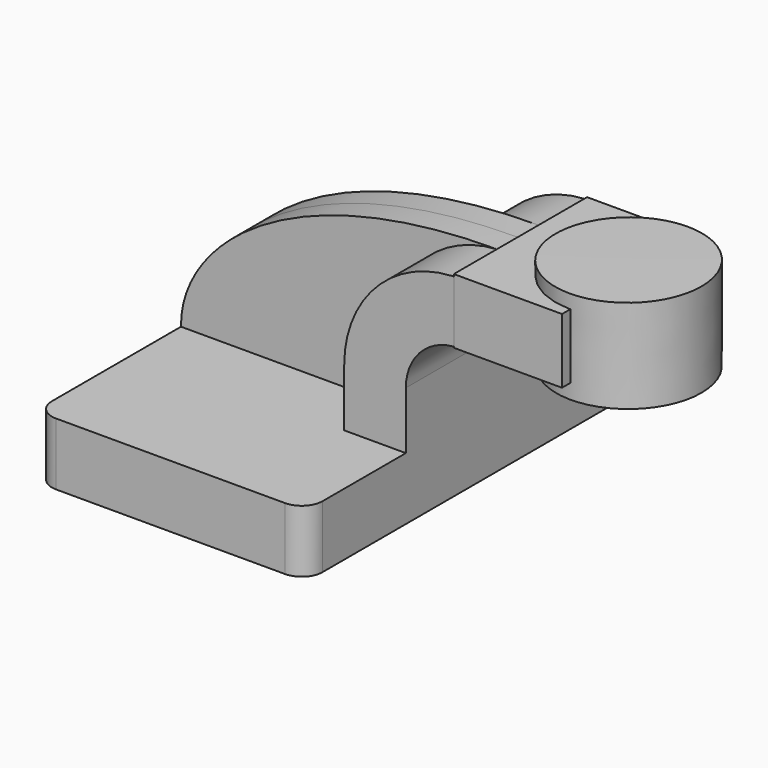
from build123d import *

# Parameters (mm, degrees)
F1_DEPTH = 63.5
F2_DEPTH = 25.4
F3_DEPTH = 7.9375
F4_R     = 6.35
F6_W     = 32.9938158393
F6_H     = 19.7962932289
F7_DEPTH = 25.4


with BuildPart() as f1:
    # F0 (on Front) → F1 (new body, symmetric)
    with BuildSketch(Plane.XZ):
        Polygon((-41.275, 9.525), (-41.275, -9.525), (41.275, -9.525), (41.275, 9.525), (22.4789988603, 9.525), align=None)
    extrude(amount=F1_DEPTH, both=True)

    # F0 (on Front) → F2 (join, symmetric)
    with BuildSketch(Plane.XZ):
        with BuildLine():
            Line((22.4789988603, 9.525), (41.275, 9.525))
            Line((41.275, 9.525), (41.275, 27.0503496115))
            ThreePointArc((41.275, 27.0503496115), (45.4874194262, 37.8206717682), (55.8891529902, 42.8752))
            Line((55.8891529902, 42.8752), (60.325, 42.8752))
            Line((60.325, 42.8752), (60.325, 61.6712011397))
            Line((60.325, 61.6712011397), (55.2858756767, 61.6712011397))
            ThreePointArc((55.2858756767, 61.6712011397), (31.9834609395, 50.8982768117), (22.4789988603, 27.0503496115))
            Line((22.4789988603, 27.0503496115), (22.4789988603, 9.525))
        make_face()
    extrude(amount=F2_DEPTH, both=True)

    # F0 (on Front) → F3 (join, symmetric)
    with BuildSketch(Plane.XZ):
        with BuildLine():
            add(Edge.make_bspline(
                [(-41.275, 9.525), (-41.5834896266, 33.2611203194), (-8.5896747187, 61.635799706), (55.2858756767, 61.6712011397)],
                knots=[0, 0, 0, 0, 109.7416466286, 109.7416466286, 109.7416466286, 109.7416466286], degree=3))
            Line((-41.275, 9.525), (22.4789988603, 9.525))
            Line((22.4789988603, 9.525), (22.4789988603, 27.0503496115))
            ThreePointArc((22.4789988603, 27.0503496115), (31.9834609395, 50.8982768117), (55.2858756767, 61.6712011397))
        make_face()
    extrude(amount=F3_DEPTH, both=True)

    # F4
    f4_edges = [f1.edges().sort_by_distance(p)[0] for p in [
        (41.275, -63.5, 0),
        (-41.275, -63.5, 0),
        (41.275, 63.5, 0),
        (-41.275, 63.5, 0),
    ]]
    fillet(f4_edges, radius=F4_R)


with BuildPart() as f5:
    # F0 (on Front) → F5 (revolve)
    with BuildSketch(Plane.XZ):
        Polygon((111.125, 66.675), (88.8829651042, 66.675), (89.0720188618, 38.1), (111.125, 38.1), align=None)
    revolve(axis=Axis((88.977491983, 0, 52.3875), (-0.0066159097, 0, 0.9999781146)))


with BuildPart() as f7:
    # F6 (on Front) → F7 (new body, symmetric)
    with BuildSketch(Plane.XZ):
        with Locations((72.3972059786, 52.4601656944)):
            Rectangle(F6_W, F6_H)
    extrude(amount=F7_DEPTH, both=True)


solid = Compound([f1.part, f5.part, f7.part])
